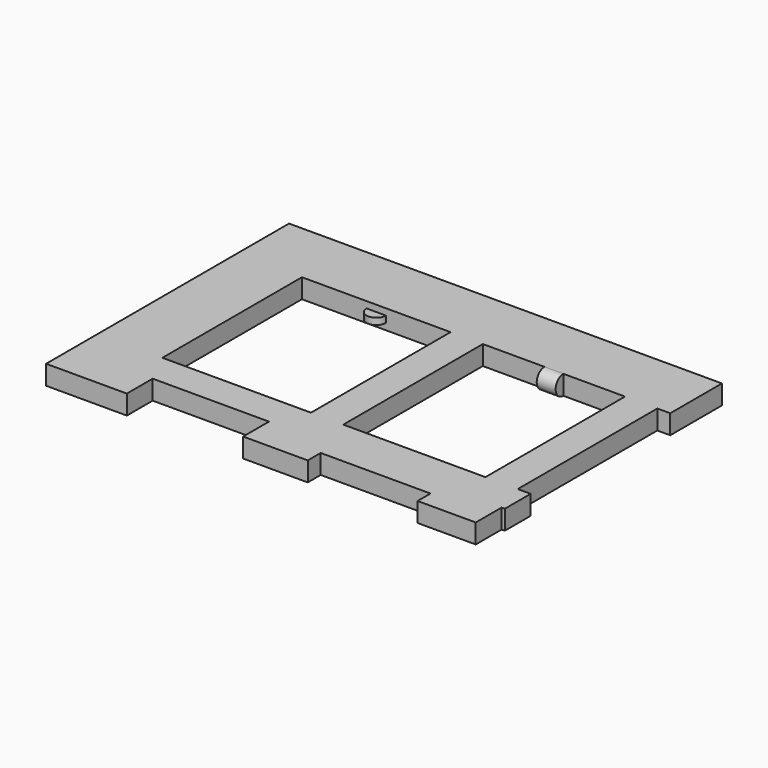
from build123d import *

# Parameters (mm, degrees)
F0_W     = 23
F0_H     = 27
F0_W_2   = 22
F1_DEPTH = 3
F2_W     = 1.5
F2_H     = 1
F4_W     = 1.463154
F4_H     = 1.5


with BuildPart() as f1:
    # F0 (on Top) → F1 (new body)
    with BuildSketch(Plane.XY):
        Polygon((-59.5, 71.5), (-59.5, 24.5), (-47, 24.5), (-47, 29.5), (-29, 29.5), (-29, 24.5), (-19, 24.5), (-19, 27), (-2, 27), (-2, 24.5), (7, 24.5), (7, 29.5), (7.5, 29.5), (7.5, 34.5), (5.5, 34.5), (5.5, 61.5), (7.5, 61.5), (7.5, 71.5), align=None)
        with Locations((-38, 48)):
            Rectangle(F0_W, F0_H, mode=Mode.SUBTRACT)
        with Locations((-10.5, 48)):
            Rectangle(F0_W_2, F0_H, mode=Mode.SUBTRACT)
    extrude(amount=F1_DEPTH)

    # F2 (on face) → F3 (revolve)
    with BuildSketch(Plane.XZ.offset(-61.5)):
        with Locations((-37.25, 1.5)):
            Rectangle(F2_W, F2_H)
    revolve(axis=Axis((-38, 61.5, 1.5), (0, 0, -1)))

    # F4 (on face) → F5 (revolve)
    with BuildSketch(Plane.XZ.offset(-61.5)):
        with Locations((-11.231577, 2.25)):
            Rectangle(F4_W, F4_H)
        with Locations((-9.768423, 2.25)):
            Rectangle(F4_W, F4_H)
    revolve(axis=Axis((-10.5, 61.5, 1.5), (-1, 0, 0)))


solid = f1.part
